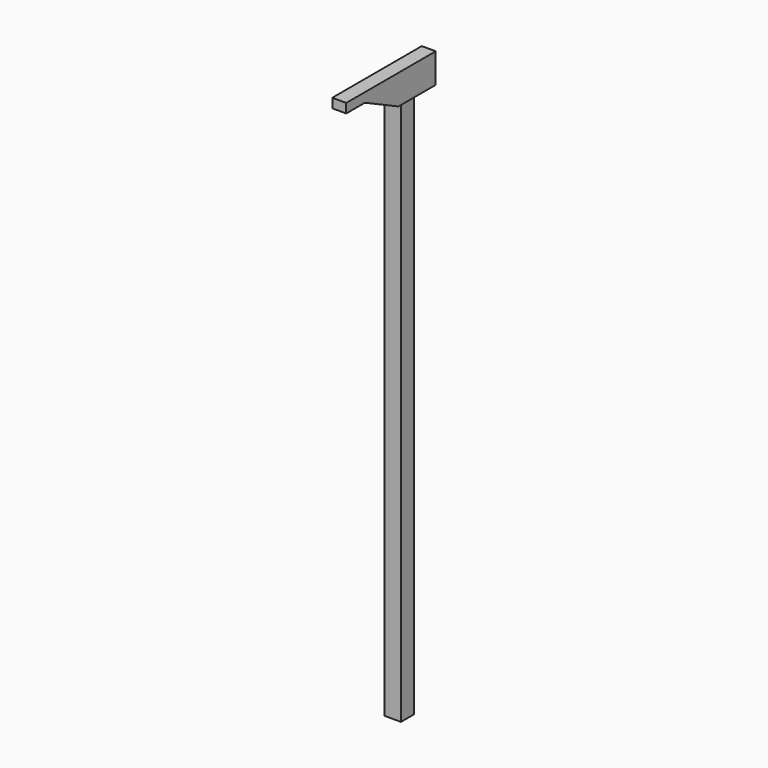
from build123d import *

# Parameters (mm, degrees)
F0_W     = 44.45
F0_H     = 44.45
F1_DEPTH = 1524
F3_DEPTH = 38.1


with BuildPart() as f1:
    # F0 (on Top) → F1 (new body)
    with BuildSketch(Plane.XY):
        Rectangle(F0_W, F0_H)
    extrude(amount=-F1_DEPTH)

    # F2 (on Right) → F3 (join)
    with BuildSketch(Plane.YZ):
        Polygon((76.361727, -31.198649), (76.361727, 49.559367), (-228.438273, 49.559367), (-228.438273, 24.159367), (-164.938273, 24.159367), (-50.638273, -31.198649), align=None)
    extrude(amount=F3_DEPTH)


solid = f1.part
